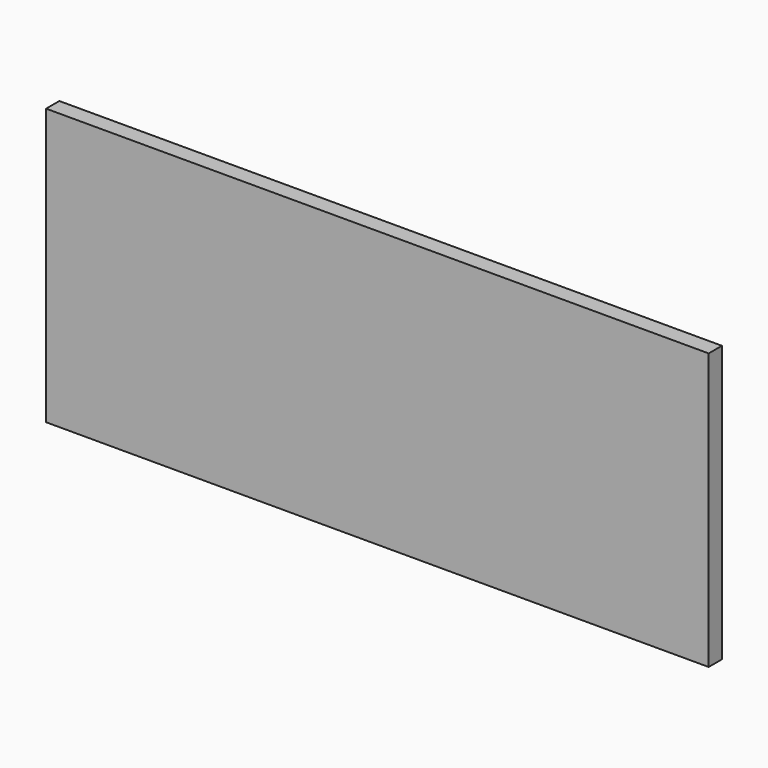
from build123d import *

# Parameters (mm, degrees)
F0_W     = 152.4
F0_H     = 63.5
F1_DEPTH = 3.81
F3_W     = 88.9
F3_H     = 19.812
F4_DEPTH = 3.81
F6_W     = 89.090503
F6_H     = 34.628688
F7_DEPTH = 3.81


with BuildPart() as f1:
    # F0 (on Front) → F1 (new body)
    with BuildSketch(Plane.XZ):
        with Locations((3.185697, 39.488637)):
            Rectangle(F0_W, F0_H)
    extrude(amount=F1_DEPTH)

    # F3 (on offset) → F4 (join)
    with BuildSketch(Plane.XY.offset(28.0416)):
        with Locations((4.091607, 9.906)):
            Rectangle(F3_W, F3_H)
    extrude(amount=F4_DEPTH)

    # F6 (on offset) → F7 (join)
    with BuildSketch(Plane.XZ.offset(-22.86)):
        with Locations((3.969803, 14.518858)):
            Rectangle(F6_W, F6_H)
    extrude(amount=F7_DEPTH)


solid = f1.part
